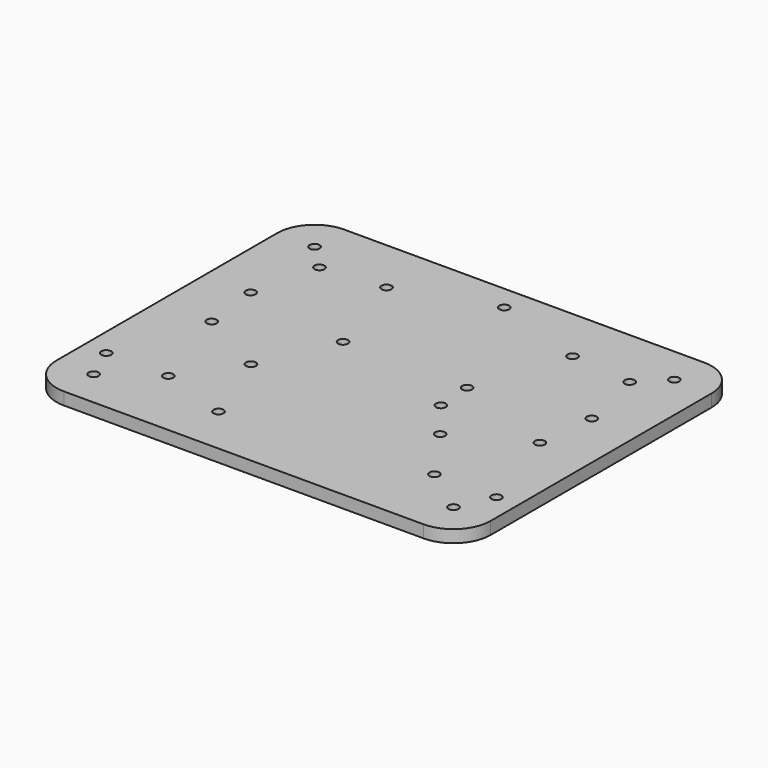
from build123d import *

# Parameters (mm, degrees)
CYLINDER072_R          = 1.6
CYLINDER072_DEPTH      = 10
CYLINDER071_R          = 1.6
CYLINDER071_DEPTH      = 10
CYLINDER070_R          = 1.6
CYLINDER070_DEPTH      = 10
CYLINDER069_R          = 1.6
CYLINDER069_DEPTH      = 10
CYLINDER066_R          = 12
CYLINDER066_DEPTH      = 10
BOX045_W               = 12
BOX045_H               = 12
BOX045_DEPTH           = 4
CUT015_PLACEMENT_ANGLE = 90
CYLINDER067_R          = 12
CYLINDER067_DEPTH      = 10
BOX046_W               = 12
BOX046_H               = 12
BOX046_DEPTH           = 4
CUT016_PLACEMENT_ANGLE = 180
CYLINDER068_R          = 12
CYLINDER068_DEPTH      = 10
BOX047_W               = 12
BOX047_H               = 12
BOX047_DEPTH           = 4
CUT017_PLACEMENT_ANGLE = 270
CYLINDER_R             = 12
CYLINDER_DEPTH         = 10
BOX044_W               = 12
BOX044_H               = 12
BOX044_DEPTH           = 4
CYLINDER063_R          = 1.6
CYLINDER063_DEPTH      = 10
CYLINDER064_R          = 1.6
CYLINDER064_DEPTH      = 10
CYLINDER065_R          = 1.6
CYLINDER065_DEPTH      = 10
CYLINDER062_R          = 1.6
CYLINDER062_DEPTH      = 10
CYLINDER051_R          = 1.6
CYLINDER051_DEPTH      = 10
CYLINDER052_R          = 1.6
CYLINDER052_DEPTH      = 10
CYLINDER050_R          = 1.6
CYLINDER050_DEPTH      = 10
CYLINDER054_R          = 1.6
CYLINDER054_DEPTH      = 20
CYLINDER053_R          = 1.6
CYLINDER053_DEPTH      = 20
CYLINDER056_R          = 1.6
CYLINDER056_DEPTH      = 10
CYLINDER057_R          = 1.6
CYLINDER057_DEPTH      = 10
CYLINDER058_R          = 1.6
CYLINDER058_DEPTH      = 10
CYLINDER059_R          = 1.6
CYLINDER059_DEPTH      = 10
CYLINDER055_R          = 1.6
CYLINDER055_DEPTH      = 10
CYLINDER061_R          = 1.6
CYLINDER061_DEPTH      = 20
CYLINDER060_R          = 1.6
CYLINDER060_DEPTH      = 20
CYLINDER048_R          = 1.6
CYLINDER048_DEPTH      = 10
CYLINDER049_R          = 1.6
CYLINDER049_DEPTH      = 10
CYLINDER047_R          = 1.6
CYLINDER047_DEPTH      = 10
BOX_W                  = 140
BOX_H                  = 113
BOX_DEPTH              = 4


with BuildPart() as cylinder074:
    # Cylinder072 → Cylinder072 (new body)
    with BuildSketch(Plane(origin=(120, 93, 0), x_dir=(1, 0, 0), z_dir=(0, 0, 1))):
        Circle(CYLINDER072_R)
    extrude(amount=CYLINDER072_DEPTH)


with BuildPart() as wallmounts:
    # Cylinder071 → Cylinder071 (new body)
    with BuildSketch(Plane(origin=(20, 93, 0), x_dir=(1, 0, 0), z_dir=(0, 0, 1))):
        Circle(CYLINDER071_R)
    extrude(amount=CYLINDER071_DEPTH)

    # Fusion039: union Cylinder074
    add(cylinder074.part)


with BuildPart() as cylinder072:
    # Cylinder070 → Cylinder070 (new body)
    with BuildSketch(Plane(origin=(125, 71.5, 0), x_dir=(1, 0, 0), z_dir=(0, 0, 1))):
        Circle(CYLINDER070_R)
    extrude(amount=CYLINDER070_DEPTH)


with BuildPart() as cuts001:
    # Cylinder069 → Cylinder069 (new body)
    with BuildSketch(Plane(origin=(15, 71.5, 0), x_dir=(1, 0, 0), z_dir=(0, 0, 1))):
        Circle(CYLINDER069_R)
    extrude(amount=CYLINDER069_DEPTH)

    # Fusion038: union Cylinder072
    add(cylinder072.part)


with BuildPart() as cylinder068:
    # Cylinder066 → Cylinder066 (new body)
    with BuildSketch(Plane(origin=(12, 12, 0), x_dir=(1, 0, 0), z_dir=(0, 0, 1))):
        Circle(CYLINDER066_R)
    extrude(amount=CYLINDER066_DEPTH)


with BuildPart() as cutout001:
    # Box045 → Box045 (new body)
    with BuildSketch(Plane.XY):
        with Locations((6, 6)):
            Rectangle(BOX045_W, BOX045_H)
    extrude(amount=BOX045_DEPTH)

    # Cut015: cut Cylinder068
    add(cylinder068.part, mode=Mode.SUBTRACT)


with BuildPart() as cutout001_1:
    # Cut015 placement: moved
    add(cutout001.part.moved(Location((140, 0, 0))).rotate(Axis((140, 0, 0), (0, 0, 1)), CUT015_PLACEMENT_ANGLE))


with BuildPart() as cylinder069:
    # Cylinder067 → Cylinder067 (new body)
    with BuildSketch(Plane(origin=(12, 12, 0), x_dir=(1, 0, 0), z_dir=(0, 0, 1))):
        Circle(CYLINDER067_R)
    extrude(amount=CYLINDER067_DEPTH)


with BuildPart() as cutout002:
    # Box046 → Box046 (new body)
    with BuildSketch(Plane.XY):
        with Locations((6, 6)):
            Rectangle(BOX046_W, BOX046_H)
    extrude(amount=BOX046_DEPTH)

    # Cut016: cut Cylinder069
    add(cylinder069.part, mode=Mode.SUBTRACT)


with BuildPart() as cutout002_1:
    # Cut016 placement: moved
    add(cutout002.part.moved(Location((140, 113, 0))).rotate(Axis((140, 113, 0), (0, 0, 1)), CUT016_PLACEMENT_ANGLE))


with BuildPart() as cylinder070:
    # Cylinder068 → Cylinder068 (new body)
    with BuildSketch(Plane(origin=(12, 12, 0), x_dir=(1, 0, 0), z_dir=(0, 0, 1))):
        Circle(CYLINDER068_R)
    extrude(amount=CYLINDER068_DEPTH)


with BuildPart() as cutout003:
    # Box047 → Box047 (new body)
    with BuildSketch(Plane.XY):
        with Locations((6, 6)):
            Rectangle(BOX047_W, BOX047_H)
    extrude(amount=BOX047_DEPTH)

    # Cut017: cut Cylinder070
    add(cylinder070.part, mode=Mode.SUBTRACT)


with BuildPart() as cutout003_1:
    # Cut017 placement: moved
    add(cutout003.part.moved(Location((0, 113, 0))).rotate(Axis((0, 113, 0), (0, 0, 1)), CUT017_PLACEMENT_ANGLE))


with BuildPart() as cylinder067:
    # Cylinder → Cylinder (new body)
    with BuildSketch(Plane(origin=(12, 12, 0), x_dir=(1, 0, 0), z_dir=(0, 0, 1))):
        Circle(CYLINDER_R)
    extrude(amount=CYLINDER_DEPTH)


with BuildPart() as cutout004:
    # Box044 → Box044 (new body)
    with BuildSketch(Plane.XY):
        with Locations((6, 6)):
            Rectangle(BOX044_W, BOX044_H)
    extrude(amount=BOX044_DEPTH)

    # Cut014: cut Cylinder067
    add(cylinder067.part, mode=Mode.SUBTRACT)

    # Fusion037: union cutOut001, cutOut002, cutOut003
    add(cutout001_1.part)
    add(cutout002_1.part)
    add(cutout003_1.part)


with BuildPart() as cylinder064:
    # Cylinder063 → Cylinder063 (new body)
    with BuildSketch(Plane(origin=(128, 12, 0), x_dir=(1, 0, 0), z_dir=(0, 0, 1))):
        Circle(CYLINDER063_R)
    extrude(amount=CYLINDER063_DEPTH)


with BuildPart() as cylinder065:
    # Cylinder064 → Cylinder064 (new body)
    with BuildSketch(Plane(origin=(12, 101, 0), x_dir=(1, 0, 0), z_dir=(0, 0, 1))):
        Circle(CYLINDER064_R)
    extrude(amount=CYLINDER064_DEPTH)


with BuildPart() as cylinder066:
    # Cylinder065 → Cylinder065 (new body)
    with BuildSketch(Plane(origin=(128, 101, 0), x_dir=(1, 0, 0), z_dir=(0, 0, 1))):
        Circle(CYLINDER065_R)
    extrude(amount=CYLINDER065_DEPTH)


with BuildPart() as outercuts:
    # Cylinder062 → Cylinder062 (new body)
    with BuildSketch(Plane(origin=(12, 12, 0), x_dir=(1, 0, 0), z_dir=(0, 0, 1))):
        Circle(CYLINDER062_R)
    extrude(amount=CYLINDER062_DEPTH)

    # Fusion036: union Cylinder064, Cylinder065, Cylinder066
    add(cylinder064.part)
    add(cylinder065.part)
    add(cylinder066.part)


with BuildPart() as cylinder052:
    # Cylinder051 → Cylinder051 (new body)
    with BuildSketch(Plane(origin=(27.25, 23, 0), x_dir=(1, 0, 0), z_dir=(0, 0, 1))):
        Circle(CYLINDER051_R)
    extrude(amount=CYLINDER051_DEPTH)


with BuildPart() as cylinder053:
    # Cylinder052 → Cylinder052 (new body)
    with BuildSketch(Plane(origin=(17.25, 53, 0), x_dir=(1, 0, 0), z_dir=(0, 0, 1))):
        Circle(CYLINDER052_R)
    extrude(amount=CYLINDER052_DEPTH)


with BuildPart() as obj1:
    # Cylinder050 → Cylinder050 (new body)
    with BuildSketch(Plane(origin=(7.25, 23, 0), x_dir=(1, 0, 0), z_dir=(0, 0, 1))):
        Circle(CYLINDER050_R)
    extrude(amount=CYLINDER050_DEPTH)

    # Fusion031: union Cylinder052, Cylinder053
    add(cylinder052.part)
    add(cylinder053.part)


with BuildPart() as obj1_1:
    # Fusion031 placement: moved
    add(obj1.part.moved(Location((105.8, 0, 0))))


with BuildPart() as cylinder055:
    # Cylinder054 → Cylinder054 (new body)
    with BuildSketch(Plane(origin=(44.35, 40.35, 0), x_dir=(1, 0, 0), z_dir=(0, 0, 1))):
        Circle(CYLINDER054_R)
    extrude(amount=CYLINDER054_DEPTH)


with BuildPart() as obj2:
    # Cylinder053 → Cylinder053 (new body)
    with BuildSketch(Plane(origin=(2.75, 2.75, 0), x_dir=(1, 0, 0), z_dir=(0, 0, 1))):
        Circle(CYLINDER053_R)
    extrude(amount=CYLINDER053_DEPTH)

    # Fusion032: union Cylinder055
    add(cylinder055.part)


with BuildPart() as obj2_1:
    # Fusion032 placement: moved
    add(obj2.part.moved(Location((46.5, 13, 0))))


with BuildPart() as cylinder057:
    # Cylinder056 → Cylinder056 (new body)
    with BuildSketch(Plane(origin=(90, 65, 0), x_dir=(1, 0, 0), z_dir=(0, 0, 1))):
        Circle(CYLINDER056_R)
    extrude(amount=CYLINDER056_DEPTH)


with BuildPart() as cylinder058:
    # Cylinder057 → Cylinder057 (new body)
    with BuildSketch(Plane(origin=(100, 95, 0), x_dir=(1, 0, 0), z_dir=(0, 0, 1))):
        Circle(CYLINDER057_R)
    extrude(amount=CYLINDER057_DEPTH)


with BuildPart() as cylinder059:
    # Cylinder058 → Cylinder058 (new body)
    with BuildSketch(Plane(origin=(40, 95, 0), x_dir=(1, 0, 0), z_dir=(0, 0, 1))):
        Circle(CYLINDER058_R)
    extrude(amount=CYLINDER058_DEPTH)


with BuildPart() as cylinder060:
    # Cylinder059 → Cylinder059 (new body)
    with BuildSketch(Plane(origin=(70, 105, 0), x_dir=(1, 0, 0), z_dir=(0, 0, 1))):
        Circle(CYLINDER059_R)
    extrude(amount=CYLINDER059_DEPTH)


with BuildPart() as obj3:
    # Cylinder055 → Cylinder055 (new body)
    with BuildSketch(Plane(origin=(50, 65, 0), x_dir=(1, 0, 0), z_dir=(0, 0, 1))):
        Circle(CYLINDER055_R)
    extrude(amount=CYLINDER055_DEPTH)

    # Fusion033: union Cylinder057, Cylinder058, Cylinder059, Cylinder060
    add(cylinder057.part)
    add(cylinder058.part)
    add(cylinder059.part)
    add(cylinder060.part)


with BuildPart() as cylinder062:
    # Cylinder061 → Cylinder061 (new body)
    with BuildSketch(Plane(origin=(100.5, 41, 0), x_dir=(1, 0, 0), z_dir=(0, 0, 1))):
        Circle(CYLINDER061_R)
    extrude(amount=CYLINDER061_DEPTH)


with BuildPart() as obj4:
    # Cylinder060 → Cylinder060 (new body)
    with BuildSketch(Plane(origin=(39.5, 41, 0), x_dir=(1, 0, 0), z_dir=(0, 0, 1))):
        Circle(CYLINDER060_R)
    extrude(amount=CYLINDER060_DEPTH)

    # Fusion034: union Cylinder062
    add(cylinder062.part)


with BuildPart() as cylinder049:
    # Cylinder048 → Cylinder048 (new body)
    with BuildSketch(Plane(origin=(27.25, 23, 0), x_dir=(1, 0, 0), z_dir=(0, 0, 1))):
        Circle(CYLINDER048_R)
    extrude(amount=CYLINDER048_DEPTH)


with BuildPart() as cylinder050:
    # Cylinder049 → Cylinder049 (new body)
    with BuildSketch(Plane(origin=(17.25, 53, 0), x_dir=(1, 0, 0), z_dir=(0, 0, 1))):
        Circle(CYLINDER049_R)
    extrude(amount=CYLINDER049_DEPTH)


with BuildPart() as cuts:
    # Cylinder047 → Cylinder047 (new body)
    with BuildSketch(Plane(origin=(7.25, 23, 0), x_dir=(1, 0, 0), z_dir=(0, 0, 1))):
        Circle(CYLINDER047_R)
    extrude(amount=CYLINDER047_DEPTH)

    # Fusion: union Cylinder049, Cylinder050
    add(cylinder049.part)
    add(cylinder050.part)

    # Fusion035: union obj1, obj2, obj3, obj4
    add(obj1_1.part)
    add(obj2_1.part)
    add(obj3.part)
    add(obj4.part)


with BuildPart() as base008:
    # Box → Box (new body)
    with BuildSketch(Plane.XY):
        with Locations((70, 56.5)):
            Rectangle(BOX_W, BOX_H)
    extrude(amount=BOX_DEPTH)

    # Cut: cut cuts
    add(cuts.part, mode=Mode.SUBTRACT)

    # Cut013: cut outerCuts
    add(outercuts.part, mode=Mode.SUBTRACT)

    # Cut018: cut cutOut004
    add(cutout004.part, mode=Mode.SUBTRACT)

    # Cut019: cut cuts001
    add(cuts001.part, mode=Mode.SUBTRACT)

    # Cut020: cut wallMounts
    add(wallmounts.part, mode=Mode.SUBTRACT)


solid = base008.part
